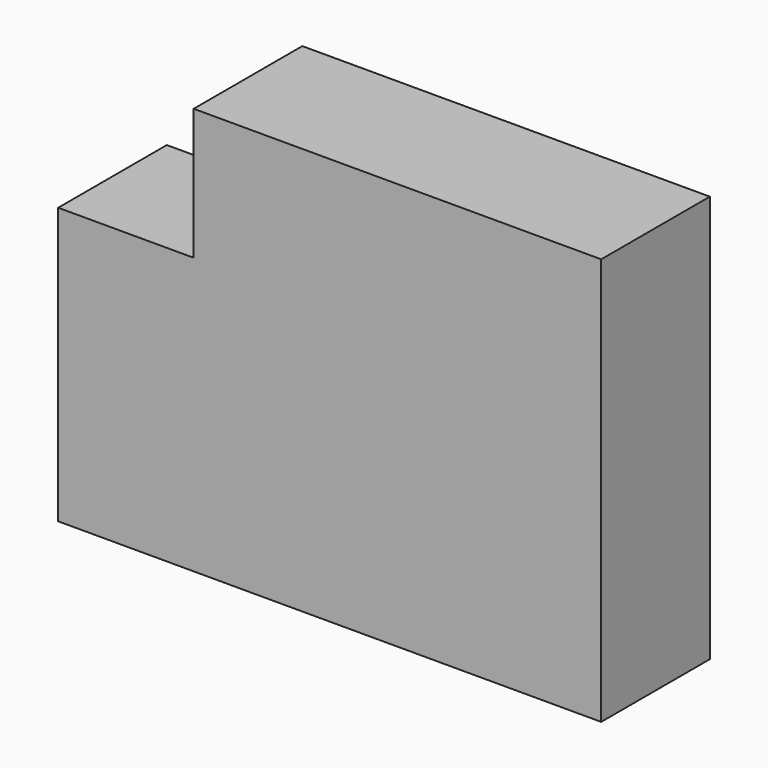
from build123d import *

# Parameters (mm, degrees)
F2_DEPTH = 12.7


with BuildPart() as f2:
    # F1 (on face) → F2 (new body)
    with BuildSketch(Plane.XZ):
        Polygon((23.973589, 21.133081), (-14.150576, 21.133081), (-14.150576, 8.861019), (-26.826411, 8.861019), (-26.826411, -16.966919), (23.973589, -16.966919), align=None)
    extrude(amount=F2_DEPTH)


solid = f2.part
